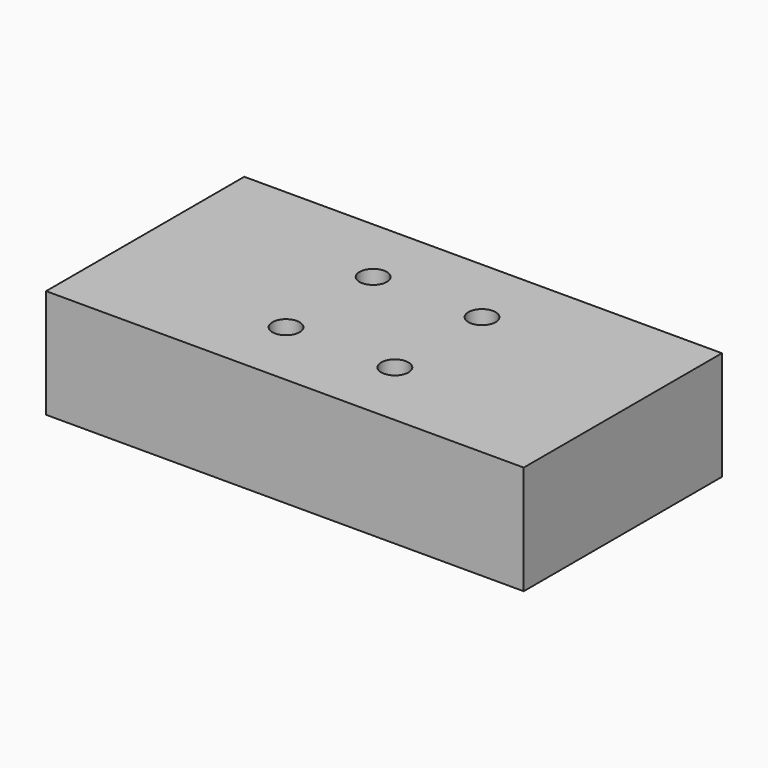
from build123d import *

# Parameters (mm, degrees)
F1_W     = 111.432314
F1_H     = 57.79247
F2_DEPTH = 25.4
F4_D     = 6.35


with BuildPart() as f2:
    # F1 (on face) → F2 (new body)
    with BuildSketch(Plane.XY):
        Rectangle(F1_W, F1_H)
    extrude(amount=F2_DEPTH)

    # F4 (through all)
    with Locations(Plane(origin=(0, 0, 0), x_dir=(1, 0, 0), z_dir=(0, 0, -1))):
        with Locations((12.7, -12.7), (-12.7, -12.7), (-12.7, 12.7), (12.7, 12.7)):
            Hole(F4_D / 2)


solid = f2.part
